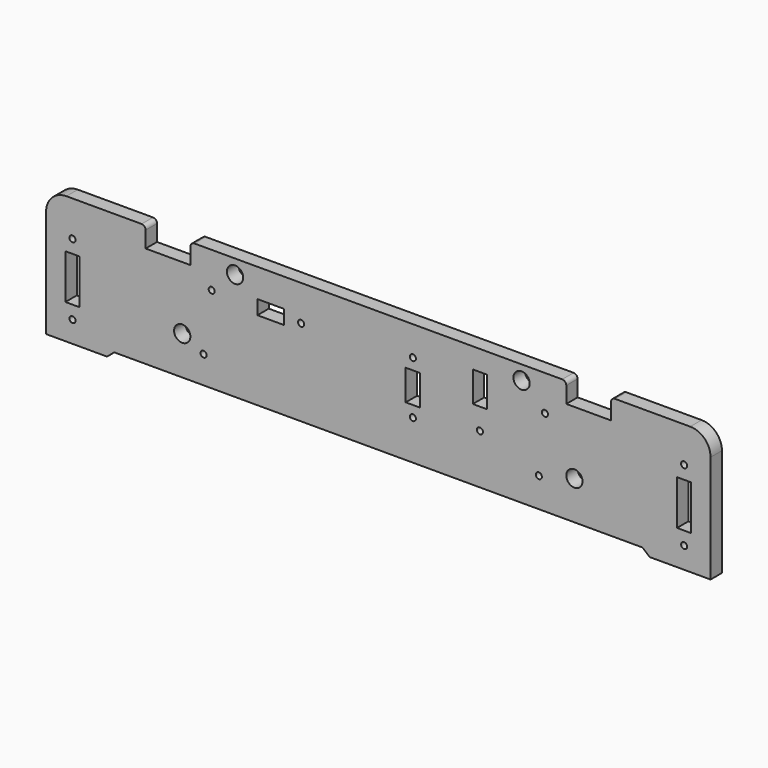
from build123d import *

# Parameters (mm, degrees)
F0_R     = 1.5
F0_R_2   = 4
F0_W     = 7
F0_H     = 22
F0_W_2   = 13
F0_H_2   = 7
F0_H_3   = 15
F1_DEPTH = 7


with BuildPart() as f1:
    # F0 (on Front) → F1 (new body)
    with BuildSketch(Plane.XZ):
        with BuildLine():
            Line((-130, 0), (0, 0))
            Line((0, 0), (130, 0))
            Line((130, 0), (133.5, -3))
            Line((133.5, -3), (163.5, -3))
            Line((163.5, -3), (163.5, 50))
            ThreePointArc((163.5, 50), (160.571068, 57.071068), (153.5, 60))
            Line((153.5, 60), (116.5, 60))
            ThreePointArc((116.5, 60), (115.085786, 59.414214), (114.5, 58))
            Line((114.5, 58), (114.5, 50))
            Line((114.5, 50), (92.5, 50))
            Line((92.5, 50), (92.5, 58))
            ThreePointArc((92.5, 58), (91.914214, 59.414214), (90.5, 60))
            Line((90.5, 60), (0, 60))
            Line((0, 60), (-90.5, 60))
            ThreePointArc((-90.5, 60), (-91.914214, 59.414214), (-92.5, 58))
            Line((-92.5, 58), (-92.5, 50))
            Line((-92.5, 50), (-114.5, 50))
            Line((-114.5, 50), (-114.5, 58))
            ThreePointArc((-114.5, 58), (-115.085786, 59.414214), (-116.5, 60))
            Line((-116.5, 60), (-153.5, 60))
            ThreePointArc((-153.5, 60), (-160.571068, 57.071068), (-163.5, 50))
            Line((-163.5, 50), (-163.5, -3))
            Line((-163.5, -3), (-133.5, -3))
            Line((-133.5, -3), (-130, 0))
        make_face()
        with Locations((-150.5, 7.5)):
            Circle(F0_R, mode=Mode.SUBTRACT)
        with Locations((-86, 13.5)):
            Circle(F0_R, mode=Mode.SUBTRACT)
        with Locations((-96.5, 19)):
            Circle(F0_R_2, mode=Mode.SUBTRACT)
        with Locations((-150.5, 25)):
            Rectangle(F0_W, F0_H, mode=Mode.SUBTRACT)
        with Locations((150.5, 7.5)):
            Circle(F0_R, mode=Mode.SUBTRACT)
        with Locations((17, 19.5)):
            Circle(F0_R, mode=Mode.SUBTRACT)
        with Locations((79, 14.5)):
            Circle(F0_R, mode=Mode.SUBTRACT)
        with Locations((50, 24.5)):
            Circle(F0_R, mode=Mode.SUBTRACT)
        with Locations((96.5, 19)):
            Circle(F0_R_2, mode=Mode.SUBTRACT)
        with Locations((150.5, 25)):
            Rectangle(F0_W, F0_H, mode=Mode.SUBTRACT)
        with Locations((-150.5, 42.5)):
            Circle(F0_R, mode=Mode.SUBTRACT)
        with Locations((-82, 42.5)):
            Circle(F0_R, mode=Mode.SUBTRACT)
        with Locations((-53, 42.5)):
            Rectangle(F0_W_2, F0_H_2, mode=Mode.SUBTRACT)
        with Locations((-38, 42.5)):
            Circle(F0_R, mode=Mode.SUBTRACT)
        with Locations((-70.5, 53)):
            Circle(F0_R_2, mode=Mode.SUBTRACT)
        with Locations((17, 32.5)):
            Rectangle(F0_W, F0_H_3, mode=Mode.SUBTRACT)
        with Locations((50, 42.5)):
            Rectangle(F0_W, F0_H_3, mode=Mode.SUBTRACT)
        with Locations((82, 42.5)):
            Circle(F0_R, mode=Mode.SUBTRACT)
        with Locations((150.5, 42.5)):
            Circle(F0_R, mode=Mode.SUBTRACT)
        with Locations((17, 45.5)):
            Circle(F0_R, mode=Mode.SUBTRACT)
        with Locations((70.5, 53)):
            Circle(F0_R_2, mode=Mode.SUBTRACT)
    extrude(amount=F1_DEPTH)


solid = f1.part
